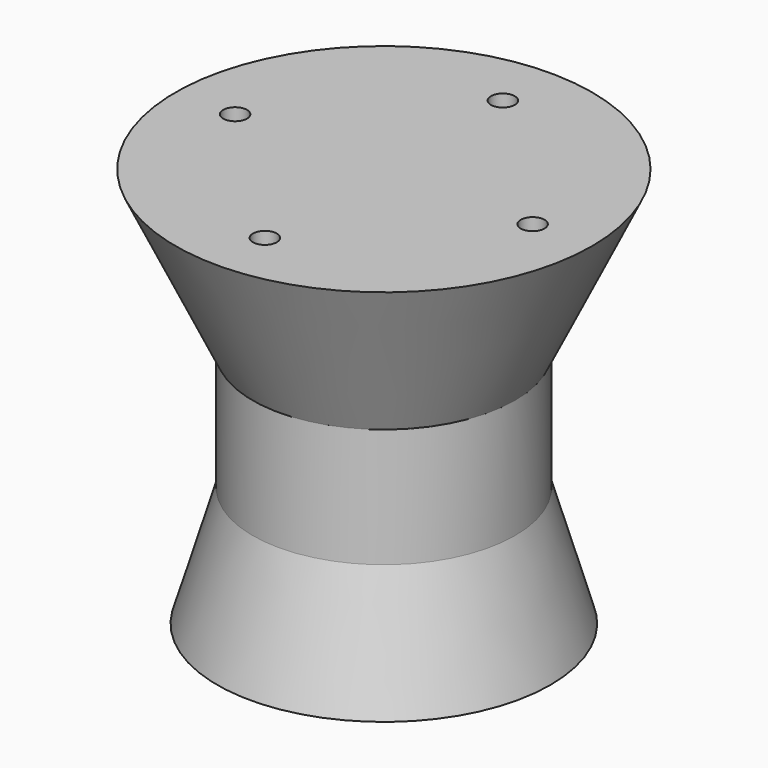
from build123d import *

# Parameters (mm, degrees)
F2_R     = 1
F3_DEPTH = 5
F4_R     = 11.019991
F5_DEPTH = 10


with BuildPart() as f1:
    # F0 (on Front) → F1 (revolve)
    with BuildSketch(Plane.XZ):
        Polygon((17.5, 0), (0, 0), (0, -13.5281), (11.019991, -13.5281), align=None)
    revolve(axis=Axis((0, 0, -6.76405), (0, 0, -1)))

    # F2 (on face) → F3 (cut)
    with BuildSketch(Plane.XY):
        with Locations((0, 12.5)):
            Circle(F2_R)
        with Locations((-12.5, 0)):
            Circle(F2_R)
        with Locations((12.5, 0)):
            Circle(F2_R)
        with Locations((0, -12.5)):
            Circle(F2_R)
    extrude(amount=-F3_DEPTH, mode=Mode.SUBTRACT)

    # F4 (on face) → F5 (join)
    with BuildSketch(Plane(origin=(0, 0, -13.5281), x_dir=(1, 0, 0), z_dir=(0, 0, -1))):
        Circle(F4_R)
    extrude(amount=F5_DEPTH)

    # F6 (on Front) → F7 (revolve)
    with BuildSketch(Plane.XZ):
        Polygon((0, -23.5281), (-11.019991, -23.5281), (-14, -33.603374), (0, -33.603374), align=None)
    revolve(axis=Axis((0, 0, -28.565737), (0, 0, -1)))


solid = f1.part
